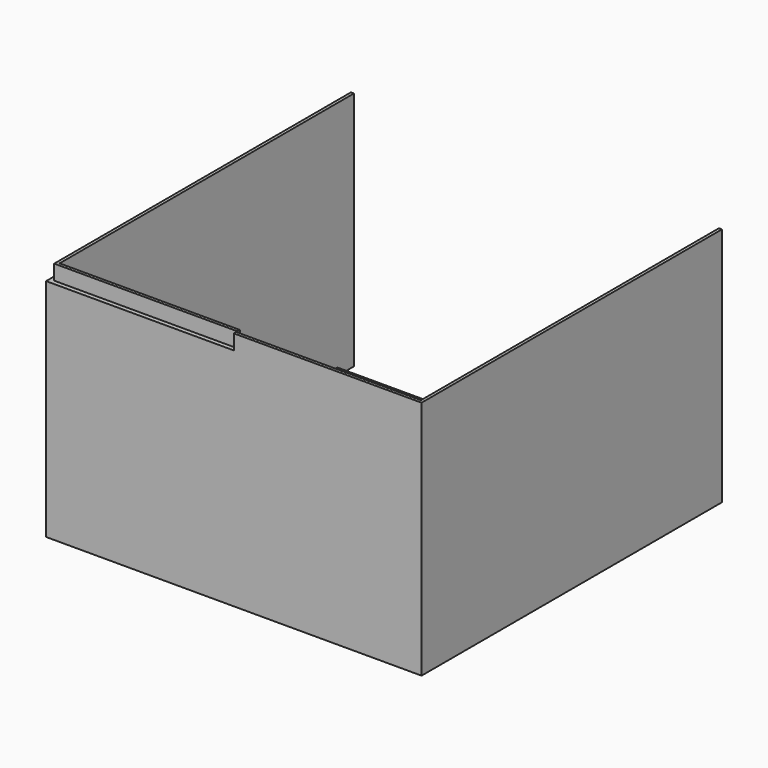
from build123d import *

# Parameters (mm, degrees)
F1_DEPTH = 5
F2_W     = 240
F2_H     = 5
F3_DEPTH = 145
F5_DEPTH = 10
F6_DEPTH = 10


with BuildPart() as f1:
    # F0 (on Top) → F1 (new body)
    with BuildSketch(Plane.XY):
        Polygon((-126.897684, 95.248217), (-131.897684, 95.248217), (-131.897684, -154.751783), (118.102316, -154.751783), (118.102316, 95.248217), (113.102316, 95.248217), (113.102316, 81.383812), (-126.897684, 81.383812), align=None)
    extrude(amount=F1_DEPTH)

    # F2 (on face) → F3 (join)
    with BuildSketch(Plane.XY.offset(5)):
        Polygon((-126.897684, -149.751783), (-126.897684, 95.248217), (-131.897684, 95.248217), (-131.897684, -154.751783), (-126.897684, -154.751783), align=None)
        with Locations((-6.897684, -152.251783)):
            Rectangle(F2_W, F2_H)
        Polygon((113.102316, 95.248217), (113.102316, -149.751783), (113.102316, -154.751783), (118.102316, -154.751783), (118.102316, 95.248217), align=None)
    extrude(amount=F3_DEPTH)

    # F4 (on face) → F5 (join)
    with BuildSketch(Plane.XY.offset(150)):
        Polygon((-128.897684, -151.751783), (-6.897684, -151.751783), (-6.897684, -149.751783), (-126.897684, -149.751783), align=None)
        Polygon((-128.897684, 95.248217), (-128.897684, -151.751783), (-126.897684, -149.751783), (-126.897684, 95.248217), align=None)
    extrude(amount=F5_DEPTH)

    # F4 (on face) → F6 (join)
    with BuildSketch(Plane.XY.offset(150)):
        Polygon((118.102316, 95.248217), (116.102316, 95.248217), (116.102316, -152.751783), (118.102316, -154.751783), align=None)
        Polygon((118.102316, -154.751783), (116.102316, -152.751783), (-6.897684, -152.751783), (-6.897684, -154.751783), align=None)
    extrude(amount=F6_DEPTH)


solid = f1.part
